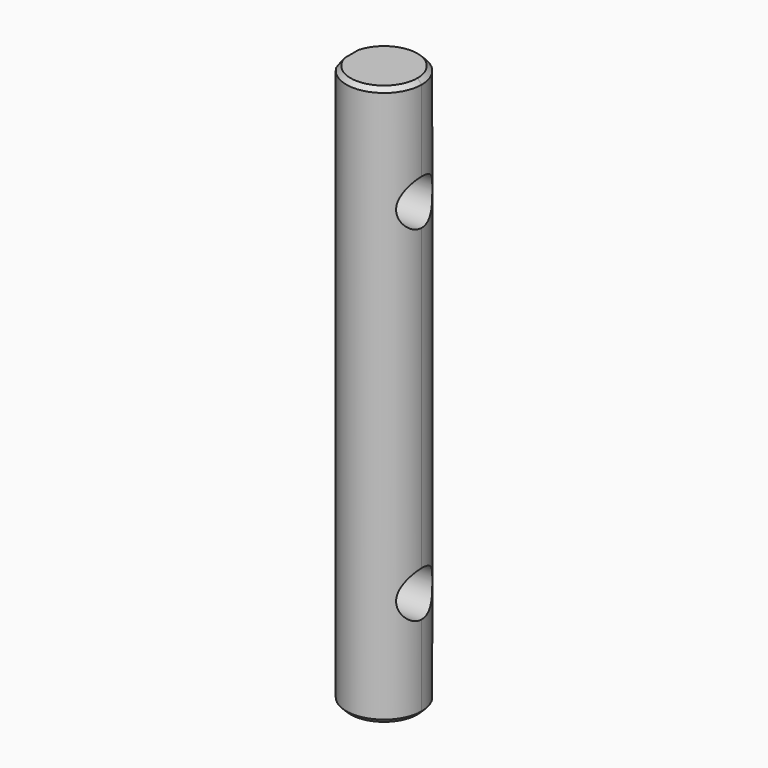
from build123d import *

# Parameters (mm, degrees)
F1_DEPTH = 13
F2_SIZE  = 0.2
F4_D     = 2.1


with BuildPart() as f1:
    # F0 (on Top) → F1 (new body, symmetric)
    with BuildSketch(Plane.XY):
        with BuildLine():
            ThreePointArc((-1.5, -0.901388), (0.467707, -1.686342), (1.75, 0))
            ThreePointArc((1.75, 0), (0.467707, 1.686342), (-1.5, 0.901388))
            Line((-1.5, 0.901388), (-1.5, -0.901388))
        make_face()
    extrude(amount=F1_DEPTH, both=True)

    # F2
    f2_edges = [f1.edges().sort_by_distance(p)[0] for p in [
        (0.467707, 1.686342, 13),
        (0.467707, -1.686342, 13),
        (0.467707, 1.686342, -13),
        (0.467707, -1.686342, -13),
    ]]
    chamfer(f2_edges, length=F2_SIZE)

    # F4 (through all)
    with Locations(Plane(origin=(-1.5, 0, 0), x_dir=(0, -1, 0), z_dir=(-1, 0, 0))):
        with Locations((0, 8), (0, -8)):
            Hole(F4_D / 2)


solid = f1.part
